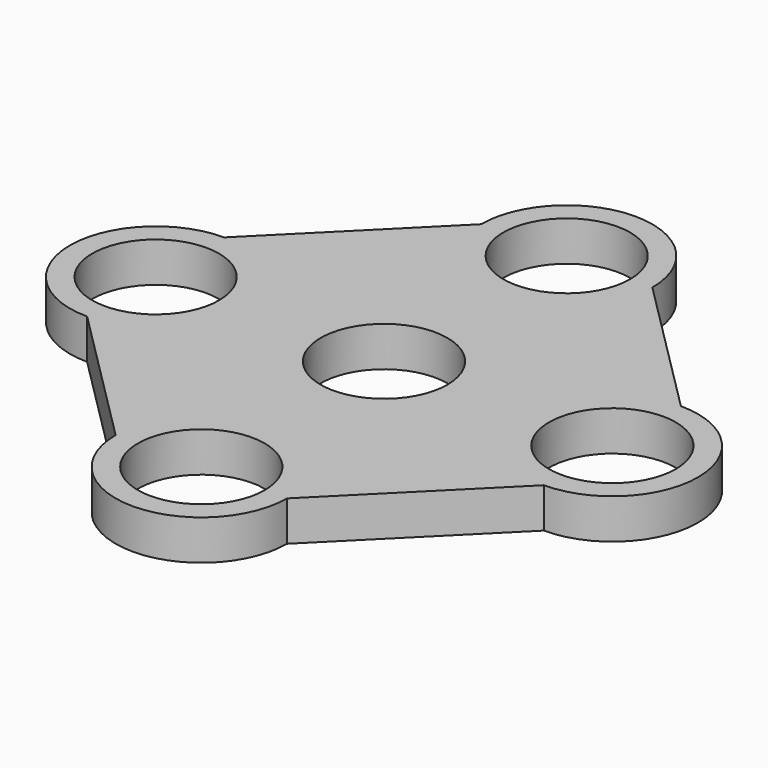
from build123d import *

# Parameters (mm, degrees)
F0_R     = 11.1
F1_DEPTH = 3.5


with BuildPart() as f1:
    # F0 (on Top) → F1 (new body, symmetric)
    with BuildSketch(Plane.XY):
        with BuildLine():
            Line((40, 15), (15, 40))
            ThreePointArc((15, 40), (0, 55), (-15, 40))
            Line((-15, 40), (-40, 15))
            ThreePointArc((-40, 15), (-55, 0), (-40, -15))
            Line((-40, -15), (-15, -40))
            ThreePointArc((-15, -40), (0, -55), (15, -40))
            Line((15, -40), (40, -15))
            ThreePointArc((40, -15), (55, 0), (40, 15))
        make_face()
        with Locations((0, -40)):
            Circle(F0_R, mode=Mode.SUBTRACT)
        with Locations((-40, 0)):
            Circle(F0_R, mode=Mode.SUBTRACT)
        Circle(F0_R, mode=Mode.SUBTRACT)
        with Locations((40, 0)):
            Circle(F0_R, mode=Mode.SUBTRACT)
        with Locations((0, 40)):
            Circle(F0_R, mode=Mode.SUBTRACT)
    extrude(amount=F1_DEPTH, both=True)


solid = f1.part
